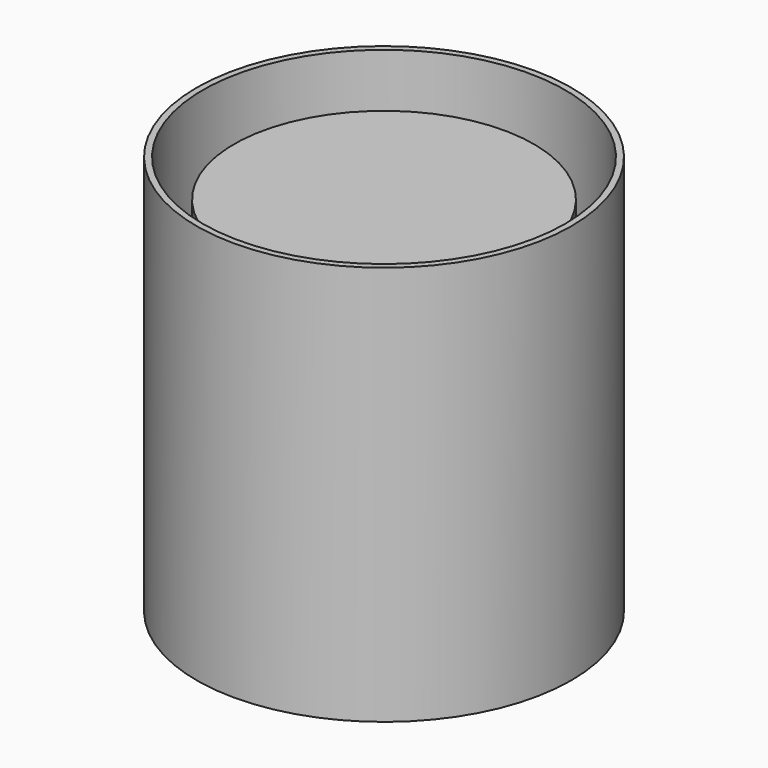
from build123d import *

# Parameters (mm, degrees)
F0_R     = 7.5
F0_R_2   = 7.25
F0_R_3   = 6
F1_DEPTH = 16
F2_DEPTH = 12
F3_DEPTH = 1.5


with BuildPart() as f1:
    # F0 (on Top) → F1 (new body)
    with BuildSketch(Plane.XY):
        Circle(F0_R)
        Circle(F0_R_2, mode=Mode.SUBTRACT)
        Circle(F0_R_2)
        Circle(F0_R_3, mode=Mode.SUBTRACT)
        Circle(F0_R_3)
    extrude(amount=-F1_DEPTH)

    # F0 (on Top) → F2 (cut)
    with BuildSketch(Plane.XY):
        Circle(F0_R_2)
        Circle(F0_R_3, mode=Mode.SUBTRACT)
    extrude(amount=-F2_DEPTH, mode=Mode.SUBTRACT)

    # F0 (on Top) → F3 (cut)
    with BuildSketch(Plane.XY):
        Circle(F0_R_3)
    extrude(amount=-F3_DEPTH, mode=Mode.SUBTRACT)


solid = f1.part
